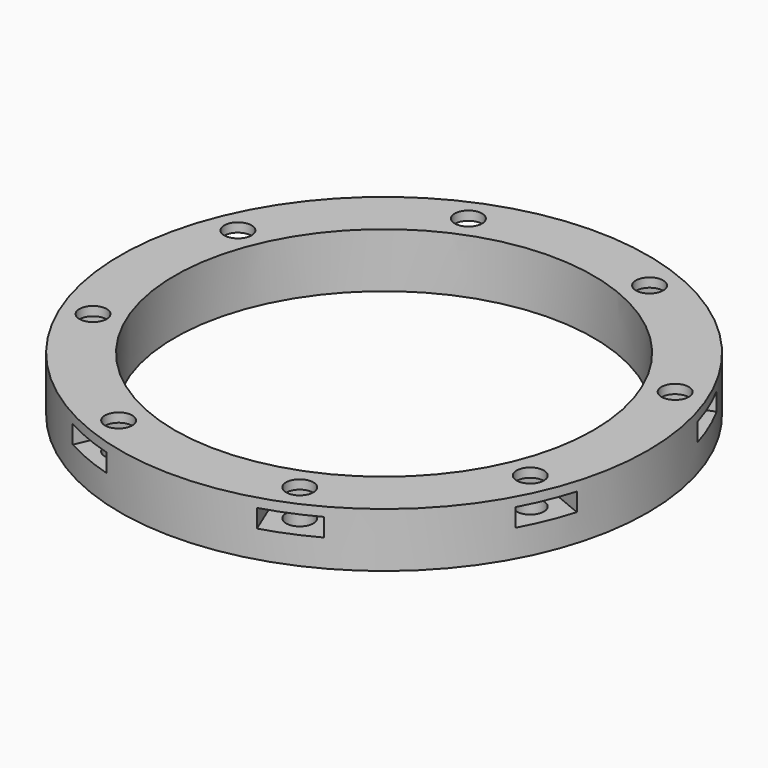
from build123d import *

# Parameters (mm, degrees)
BOX049_W                    = 6
BOX049_H                    = 6
BOX049_DEPTH                = 2
BOX050_W                    = 6
BOX050_H                    = 6
BOX050_DEPTH                = 2
BOX050_PLACEMENT_ANGLE      = 135
BOX051_W                    = 6
BOX051_H                    = 6
BOX051_DEPTH                = 2
BOX052_W                    = 6
BOX052_H                    = 6
BOX052_DEPTH                = 2
BOX052_PLACEMENT_ANGLE      = 225
BOX053_W                    = 6
BOX053_H                    = 6
BOX053_DEPTH                = 2
BOX054_W                    = 6
BOX054_H                    = 6
BOX054_DEPTH                = 2
BOX054_PLACEMENT_ANGLE      = 45
BOX047_W                    = 6
BOX047_H                    = 6
BOX047_DEPTH                = 2
BOX048_W                    = 6
BOX048_H                    = 6
BOX048_DEPTH                = 2
BOX048_PLACEMENT_ANGLE      = 45
COMPOUND039_PLACEMENT_ANGLE = 22.5
CYLINDER112_R               = 1.5
CYLINDER112_DEPTH           = 15
CYLINDER112_PLACEMENT_ANGLE = 45
CYLINDER113_R               = 1.5
CYLINDER113_DEPTH           = 15
CYLINDER114_R               = 1.5
CYLINDER114_DEPTH           = 15
CYLINDER114_PLACEMENT_ANGLE = 135
CYLINDER115_R               = 1.5
CYLINDER115_DEPTH           = 15
CYLINDER116_R               = 1.5
CYLINDER116_DEPTH           = 15
CYLINDER116_PLACEMENT_ANGLE = 225
CYLINDER117_R               = 1.5
CYLINDER117_DEPTH           = 15
CYLINDER118_R               = 1.5
CYLINDER118_DEPTH           = 15
CYLINDER118_PLACEMENT_ANGLE = 45
CYLINDER111_R               = 1.5
CYLINDER111_DEPTH           = 15
COMPOUND897_PLACEMENT_ANGLE = 22.5
TUBE007_R                   = 29
TUBE007_R_2                 = 23
TUBE007_DEPTH               = 6


with BuildPart() as krychle049:
    # Box049 → Box049 (new body)
    with BuildSketch(Plane(origin=(-23, -3, -13), x_dir=(0, 1, 0), z_dir=(0, 0, 1))):
        with Locations((3, 3)):
            Rectangle(BOX049_W, BOX049_H)
    extrude(amount=BOX049_DEPTH)


with BuildPart() as krychle050:
    # Box050 → Box050 (new body)
    with BuildSketch(Plane.XY):
        with Locations((3, 3)):
            Rectangle(BOX050_W, BOX050_H)
    extrude(amount=BOX050_DEPTH)


with BuildPart() as krychle050_1:
    # Box050 placement: moved
    add(krychle050.part.moved(Location((-14.142136, -18.384776, -13))).rotate(Axis((-14.142136, -18.384776, -13), (0, 0, 1)), BOX050_PLACEMENT_ANGLE))


with BuildPart() as krychle051:
    # Box051 → Box051 (new body)
    with BuildSketch(Plane(origin=(3, -23, -13), x_dir=(-1, 0, 0), z_dir=(0, 0, 1))):
        with Locations((3, 3)):
            Rectangle(BOX051_W, BOX051_H)
    extrude(amount=BOX051_DEPTH)


with BuildPart() as krychle052:
    # Box052 → Box052 (new body)
    with BuildSketch(Plane.XY):
        with Locations((3, 3)):
            Rectangle(BOX052_W, BOX052_H)
    extrude(amount=BOX052_DEPTH)


with BuildPart() as krychle052_1:
    # Box052 placement: moved
    add(krychle052.part.moved(Location((18.384776, -14.142136, -13))).rotate(Axis((18.384776, -14.142136, -13), (0, 0, 1)), BOX052_PLACEMENT_ANGLE))


with BuildPart() as krychle053:
    # Box053 → Box053 (new body)
    with BuildSketch(Plane(origin=(23, 3, -13), x_dir=(0, -1, 0), z_dir=(0, 0, 1))):
        with Locations((3, 3)):
            Rectangle(BOX053_W, BOX053_H)
    extrude(amount=BOX053_DEPTH)


with BuildPart() as krychle054:
    # Box054 → Box054 (new body)
    with BuildSketch(Plane.XY):
        with Locations((3, 3)):
            Rectangle(BOX054_W, BOX054_H)
    extrude(amount=BOX054_DEPTH)


with BuildPart() as krychle054_1:
    # Box054 placement: moved
    add(krychle054.part.moved(Location((14.142136, 18.384776, -13))).rotate(Axis((14.142136, 18.384776, -13), (0, 0, -1)), BOX054_PLACEMENT_ANGLE))


with BuildPart() as krychle047:
    # Box047 → Box047 (new body)
    with BuildSketch(Plane(origin=(-3, 23, -13), x_dir=(1, 0, 0), z_dir=(0, 0, 1))):
        with Locations((3, 3)):
            Rectangle(BOX047_W, BOX047_H)
    extrude(amount=BOX047_DEPTH)


with BuildPart() as compound039:
    # Box048 → Box048 (new body)
    with BuildSketch(Plane.XY):
        with Locations((3, 3)):
            Rectangle(BOX048_W, BOX048_H)
    extrude(amount=BOX048_DEPTH)


with BuildPart() as compound039_1:
    # Box048 placement: moved
    add(compound039.part.moved(Location((-18.384776, 14.142136, -13))).rotate(Axis((-18.384776, 14.142136, -13), (0, 0, 1)), BOX048_PLACEMENT_ANGLE))

    # Compound039: union Krychle049, Krychle050, Krychle051, Krychle052, Krychle053, Krychle054, Krychle047
    add(krychle049.part)
    add(krychle050_1.part)
    add(krychle051.part)
    add(krychle052_1.part)
    add(krychle053.part)
    add(krychle054_1.part)
    add(krychle047.part)


with BuildPart() as compound039_2:
    # Compound039 placement: moved
    add(compound039_1.part.rotate(Axis((0, 0, 0), (0, 0, 1)), COMPOUND039_PLACEMENT_ANGLE))


with BuildPart() as obj1:
    # Cylinder112 → Cylinder112 (new body)
    with BuildSketch(Plane.XY):
        Circle(CYLINDER112_R)
    extrude(amount=CYLINDER112_DEPTH)


with BuildPart() as obj1_1:
    # Cylinder112 placement: moved
    add(obj1.part.moved(Location((-18.384776, 18.384776, -20))).rotate(Axis((-18.384776, 18.384776, -20), (0, 0, 1)), CYLINDER112_PLACEMENT_ANGLE))


with BuildPart() as obj2:
    # Cylinder113 → Cylinder113 (new body)
    with BuildSketch(Plane(origin=(-26, 0, -20), x_dir=(0, 1, 0), z_dir=(0, 0, 1))):
        Circle(CYLINDER113_R)
    extrude(amount=CYLINDER113_DEPTH)


with BuildPart() as obj3:
    # Cylinder114 → Cylinder114 (new body)
    with BuildSketch(Plane.XY):
        Circle(CYLINDER114_R)
    extrude(amount=CYLINDER114_DEPTH)


with BuildPart() as obj3_1:
    # Cylinder114 placement: moved
    add(obj3.part.moved(Location((-18.384776, -18.384776, -20))).rotate(Axis((-18.384776, -18.384776, -20), (0, 0, 1)), CYLINDER114_PLACEMENT_ANGLE))


with BuildPart() as obj4:
    # Cylinder115 → Cylinder115 (new body)
    with BuildSketch(Plane(origin=(0, -26, -20), x_dir=(-1, 0, 0), z_dir=(0, 0, 1))):
        Circle(CYLINDER115_R)
    extrude(amount=CYLINDER115_DEPTH)


with BuildPart() as obj5:
    # Cylinder116 → Cylinder116 (new body)
    with BuildSketch(Plane.XY):
        Circle(CYLINDER116_R)
    extrude(amount=CYLINDER116_DEPTH)


with BuildPart() as obj5_1:
    # Cylinder116 placement: moved
    add(obj5.part.moved(Location((18.384776, -18.384776, -20))).rotate(Axis((18.384776, -18.384776, -20), (0, 0, 1)), CYLINDER116_PLACEMENT_ANGLE))


with BuildPart() as obj6:
    # Cylinder117 → Cylinder117 (new body)
    with BuildSketch(Plane(origin=(26, 0, -20), x_dir=(0, -1, 0), z_dir=(0, 0, 1))):
        Circle(CYLINDER117_R)
    extrude(amount=CYLINDER117_DEPTH)


with BuildPart() as obj7:
    # Cylinder118 → Cylinder118 (new body)
    with BuildSketch(Plane.XY):
        Circle(CYLINDER118_R)
    extrude(amount=CYLINDER118_DEPTH)


with BuildPart() as obj7_1:
    # Cylinder118 placement: moved
    add(obj7.part.moved(Location((18.384776, 18.384776, -20))).rotate(Axis((18.384776, 18.384776, -20), (0, 0, -1)), CYLINDER118_PLACEMENT_ANGLE))


with BuildPart() as compound897:
    # Cylinder111 → Cylinder111 (new body)
    with BuildSketch(Plane(origin=(0, 26, -20), x_dir=(1, 0, 0), z_dir=(0, 0, 1))):
        Circle(CYLINDER111_R)
    extrude(amount=CYLINDER111_DEPTH)

    # Compound897: union obj1, obj2, obj3, obj4, obj5, obj6, obj7
    add(obj1_1.part)
    add(obj2.part)
    add(obj3_1.part)
    add(obj4.part)
    add(obj5_1.part)
    add(obj6.part)
    add(obj7_1.part)


with BuildPart() as compound897_1:
    # Compound897 placement: moved
    add(compound897.part.rotate(Axis((0, 0, 0), (0, 0, 1)), COMPOUND897_PLACEMENT_ANGLE))


with BuildPart() as cut311:
    # Tube007 → Tube007 (new body)
    with BuildSketch(Plane.XY.offset(-16)):
        Circle(TUBE007_R)
        Circle(TUBE007_R_2, mode=Mode.SUBTRACT)
    extrude(amount=TUBE007_DEPTH)

    # Cut532: cut Compound897
    add(compound897_1.part, mode=Mode.SUBTRACT)

    # Cut311: cut Compound039
    add(compound039_2.part, mode=Mode.SUBTRACT)


solid = cut311.part
